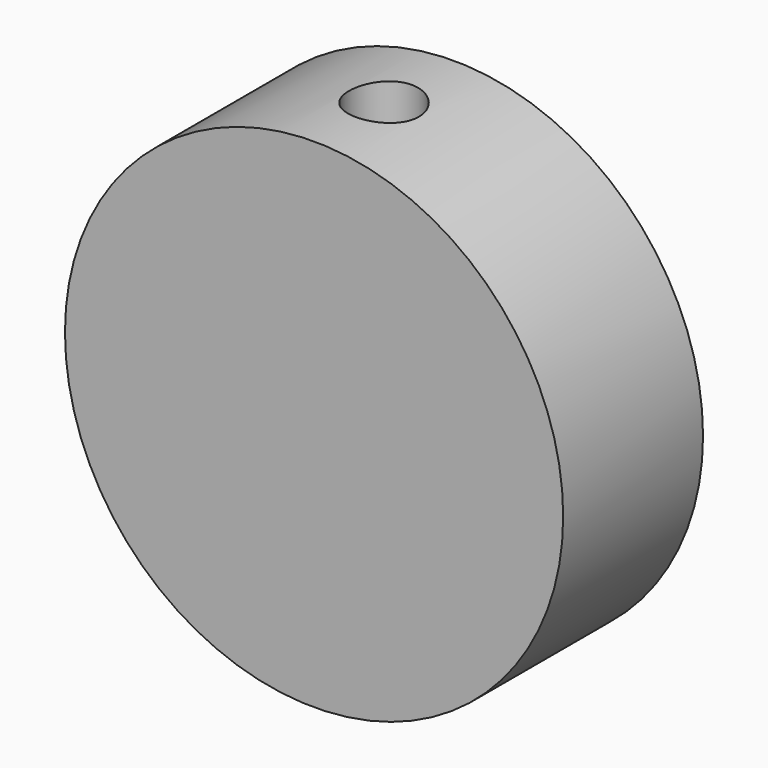
from build123d import *

# Parameters (mm, degrees)
F0_R     = 28.5
F1_DEPTH = 20
F2_R     = 4
F3_DEPTH = 28.501
F4_DEPTH = 28.501


with BuildPart() as f1:
    # F0 (on Front) → F1 (new body)
    with BuildSketch(Plane.XZ):
        Circle(F0_R)
    extrude(amount=F1_DEPTH)

    # F2 (on Top) → F3 (cut, through all)
    with BuildSketch(Plane.XY):
        with Locations((0, -10)):
            Circle(F2_R)
    extrude(amount=-F3_DEPTH, mode=Mode.SUBTRACT)

    # F2 (on Top) → F4 (cut, through all)
    with BuildSketch(Plane.XY):
        with Locations((0, -10)):
            Circle(F2_R)
    extrude(amount=F4_DEPTH, mode=Mode.SUBTRACT)


solid = f1.part
